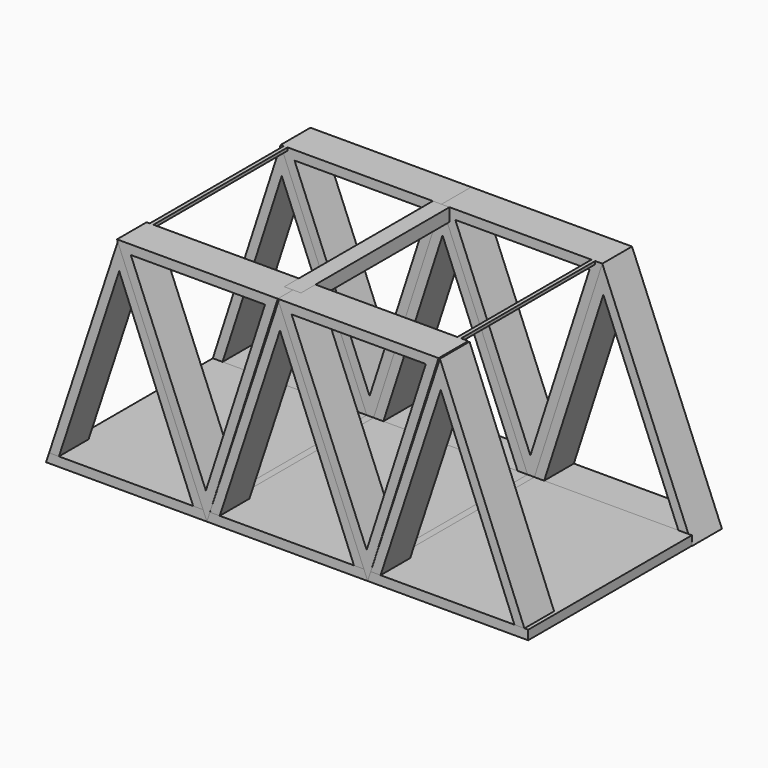
from build123d import *

# Parameters (mm, degrees)
F1_DEPTH  = 25.4
F3_DEPTH  = 140
F5_DEPTH  = 25.4
F6_DEPTH  = 165.4
F7_T      = -6.35
F7_2_T    = -6.35
F8_W      = 114.6380283594
F8_H      = 145.7706200123
F9_DEPTH  = 333
F10_W     = 2.54
F10_H     = 2.032
F11_DEPTH = 127
F13_DEPTH = 127
F14_W     = 2.54
F14_H     = 2.032
F15_DEPTH = 127


with BuildPart() as f1:
    # F0 (on Front) → F1 (new body)
    with BuildSketch(Plane.XZ):
        Polygon((-220.9205039681, 150), (-269.4142203802, 0), (-159.4142203802, 0), align=None)
        Polygon((-260.6877224035, 6.35), (-220.2145848766, 131.5408716885), (-168.8810831653, 6.35), align=None, mode=Mode.SUBTRACT)
    extrude(amount=F1_DEPTH)


with BuildPart() as f1b:
    # F0 (on Front) → F1, piece 2 (new body)
    with BuildSketch(Plane.XZ):
        Polygon((-110.9205039681, 150), (-159.4142203802, 0), (-49.4142203802, 0), align=None)
        Polygon((-58.8810831653, 6.35), (-150.6877224035, 6.35), (-110.2145848766, 131.5408716885), align=None, mode=Mode.SUBTRACT)
    extrude(amount=F1_DEPTH)


with BuildPart() as f1c:
    # F0 (on Front) → F1, piece 3 (new body)
    with BuildSketch(Plane.XZ):
        Polygon((-0.9205039681, 150), (-49.4142203802, 0), (60.5857796198, 0), align=None)
        Polygon((-40.6877224035, 6.35), (-0.2145848766, 131.5408716885), (51.1189168347, 6.35), align=None, mode=Mode.SUBTRACT)
    extrude(amount=F1_DEPTH)


with BuildPart() as f3:
    # F2 (on face) → F3 (new body)
    with BuildSketch(Plane.XZ.offset(25.4)):
        Polygon((-267.3613197188, 6.35), (-269.4142203802, 0), (-159.4142203802, 0), (-162.0179863854, 6.35), (-168.8810831653, 6.35), (-260.6877224035, 6.35), align=None)
        Polygon((-162.0179863854, 6.35), (-159.4142203802, 0), (60.3559166193, 0), (60.3559166193, 6.35), align=None)
    extrude(amount=F3_DEPTH)


with BuildPart() as f5:
    # F4 (on face) → F5 (new body)
    with BuildSketch(Plane.XZ.offset(165.4)):
        Polygon((-220, 149.9108), (-267.3211070127, 6.35), (-260.6350301683, 6.35), (-219.3941436498, 131.4648807595), (-168.829523937, 6.35), (-161.9805444915, 6.35), align=None)
    extrude(amount=-F5_DEPTH)


with BuildPart() as f5b:
    # F4 (on face) → F5, piece 2 (new body)
    with BuildSketch(Plane.XZ.offset(165.4)):
        Polygon((-110, 149.9108), (-157.3211070127, 6.35), (-150.6350301683, 6.35), (-109.3941436498, 131.4648807595), (-58.829523937, 6.35), (-51.9805444915, 6.35), align=None)
    extrude(amount=-F5_DEPTH)


with BuildPart() as f5c:
    # F4 (on face) → F5, piece 3 (new body)
    with BuildSketch(Plane.XZ.offset(165.4)):
        Polygon((0, 149.9108), (-47.3211070127, 6.35), (-40.6350301683, 6.35), (0.5947637896, 131.431228612), (50.953992109, 6.35), (57.7993291651, 6.35), align=None)
    extrude(amount=-F5_DEPTH)


with BuildPart() as f6:
    # F0 (on Front) → F6 (new body, through all)
    with BuildSketch(Plane.XZ):
        Polygon((-110.9205039681, 150), (-220.9205039681, 150), (-159.4142203802, 0), align=None)
    extrude(amount=F6_DEPTH)

    # F7
    f7_openings = [f6.faces().sort_by_distance(p)[0] for p in [
        (-163.751743, -165.4, 100),
        (-163.751743, 0, 100),
    ]]
    offset(amount=F7_T, openings=f7_openings)


with BuildPart() as f6b:
    # F0 (on Front) → F6, piece 2 (new body, through all)
    with BuildSketch(Plane.XZ):
        Polygon((-0.9205039681, 150), (-110.9205039681, 150), (-49.4142203802, 0), align=None)
    extrude(amount=F6_DEPTH)

    # F7#2
    f7_2_openings = [f6b.faces().sort_by_distance(p)[0] for p in [
        (-53.751743, -165.4, 100),
        (-53.751743, 0, 100),
    ]]
    offset(amount=F7_2_T, openings=f7_2_openings)


with BuildPart() as f9_tool:
    # F8 (on face) → F9 (new body)
    with BuildSketch(Plane.YZ.offset(60.3559166193)):
        with Locations((-82.7190141797, 79.2353100061)):
            Rectangle(F8_W, F8_H)
    extrude(amount=-F9_DEPTH)


with BuildPart() as f5_1:
    add(f5.part)

    # F9: cut by f9_tool
    add(f9_tool.part, mode=Mode.SUBTRACT)


with BuildPart() as f5b_1:
    add(f5b.part)

    # F9: cut by f9_tool
    add(f9_tool.part, mode=Mode.SUBTRACT)


with BuildPart() as f5c_1:
    add(f5c.part)

    # F9: cut by f9_tool
    add(f9_tool.part, mode=Mode.SUBTRACT)


with BuildPart() as f6_1:
    add(f6.part)

    # F9: cut by f9_tool
    add(f9_tool.part, mode=Mode.SUBTRACT)

    # F10 (on face) → F11 (join)
    with BuildSketch(Plane.XZ.offset(25.4)):
        with Locations((-217.5002208757, 148.984)):
            Rectangle(F10_W, F10_H)
    extrude(amount=F11_DEPTH)


with BuildPart() as f6b_1:
    add(f6b.part)

    # F9: cut by f9_tool
    add(f9_tool.part, mode=Mode.SUBTRACT)

    # F14 (on face) → F15 (join)
    with BuildSketch(Plane.XZ.offset(25.4)):
        with Locations((-7.0570147443, 148.984)):
            Rectangle(F14_W, F14_H)
    extrude(amount=F15_DEPTH)


with BuildPart() as f13:
    # F12 (on face) → F13 (new body)
    with BuildSketch(Plane.XZ.offset(25.4)):
        Polygon((-110.9205039681, 150), (-116.8577745557, 150), (-116.8577745557, 141.11), (-113.7945648941, 141.11), align=None)
        Polygon((-105.4277745557, 150), (-110.9205039681, 150), (-113.7945648941, 141.11), (-105.4277745557, 141.11), align=None)
    extrude(amount=F13_DEPTH)


solid = Compound([f1.part, f1b.part, f1c.part, f3.part, f5_1.part, f5b_1.part, f5c_1.part, f6_1.part, f6b_1.part, f13.part])
